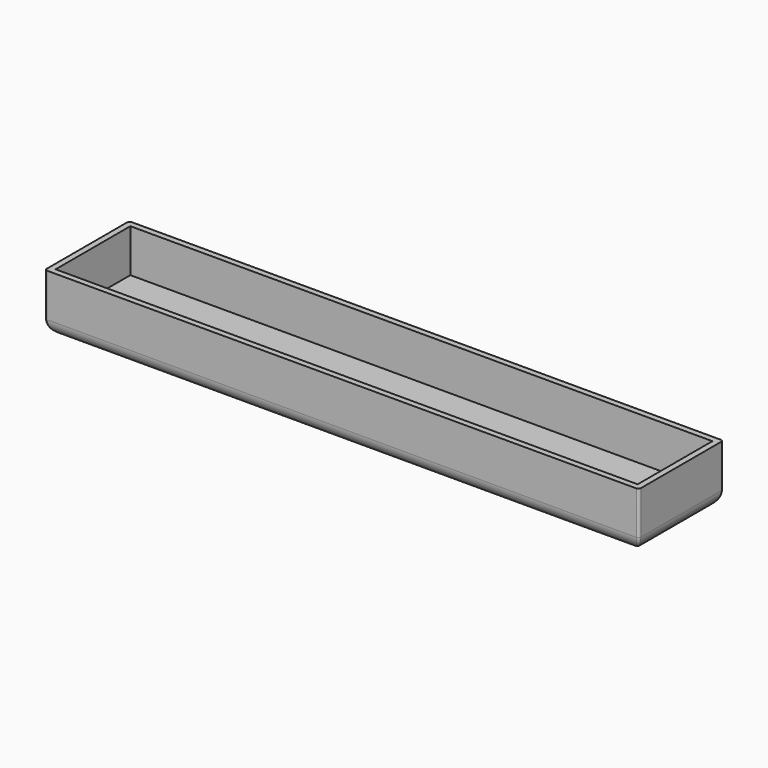
from build123d import *

# Parameters (mm, degrees)
F0_W     = 124
F0_H     = 22
F1_DEPTH = 12
F2_DEPTH = 11
F3_R     = 3
F4_W     = 121.5
F4_H     = 19.5
F5_DEPTH = 9
F6_R     = 0.5


with BuildPart() as f1:
    # F0 (on Top) → F1 (new body)
    with BuildSketch(Plane.XY):
        Rectangle(F0_W, F0_H)
    extrude(amount=F1_DEPTH)

    # F0 (on Top) → F2 (join)
    with BuildSketch(Plane.XY):
        Rectangle(F0_W, F0_H)
    extrude(amount=F2_DEPTH)

    # F3
    f3_edges = [f1.edges().sort_by_distance(p)[0] for p in [
        (0, -11, 0),
        (-62, 0, 0),
        (0, 11, 0),
        (62, 0, 0),
    ]]
    fillet(f3_edges, radius=F3_R)

    # F4 (on face) → F5 (cut)
    with BuildSketch(Plane.XY.offset(12)):
        Rectangle(F4_W, F4_H)
    extrude(amount=-F5_DEPTH, mode=Mode.SUBTRACT)

    # F6
    f6_edges = [f1.edges().sort_by_distance(p)[0] for p in [
        (-62, 11, 7.5),
        (-62, -11, 7.5),
        (62, 11, 7.5),
        (62, -11, 7.5),
    ]]
    fillet(f6_edges, radius=F6_R)


solid = f1.part
